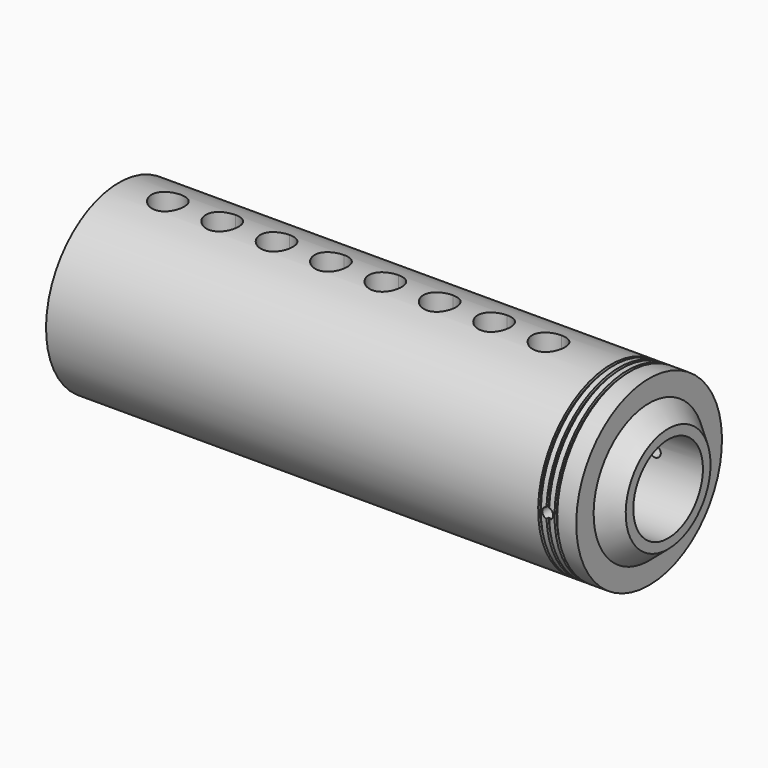
from build123d import *

# Parameters (mm, degrees)
F2_R     = 1
F3_DEPTH = 25
F4_R     = 7.25
F5_DEPTH = 2.5
F6_R     = 3
F7_DEPTH = 25
F8_R     = 7.25
F9_DEPTH = 25


with BuildPart() as f1:
    # F0 (on Front) → F1 (revolve)
    with BuildSketch(Plane.XZ):
        Polygon((4, 0), (0, 0), (0, -16.75), (90.5, -16.75), (90.5, -16.25), (91, -16.25), (91, -16.75), (92, -16.75), (92, -16.25), (92.5, -16.25), (92.5, -16.75), (93.5, -16.75), (93.5, -16.25), (94, -16.25), (94, -16.75), (97.5, -16.75), (97.5, -12.75), (101, -9.75), (101, -8), (4, -8), align=None)
    revolve(axis=Axis((2, 0, 0), (1, 0, 0)))

    # F2 (on Front) → F3 (cut, symmetric)
    with BuildSketch(Plane.XZ):
        with Locations((92.25, 0)):
            Circle(F2_R)
    extrude(amount=F3_DEPTH, both=True, mode=Mode.SUBTRACT)

    # F4 (on face) → F5 (cut)
    with BuildSketch(Plane(origin=(2.5, 0, 0), x_dir=(0, -1, 0), z_dir=(-1, 0, 0))):
        Circle(F4_R)
    extrude(amount=-F5_DEPTH, mode=Mode.SUBTRACT)

    # F6 (on Top) → F7 (cut, symmetric)
    with BuildSketch(Plane.XY):
        with BuildLine():
            ThreePointArc((22, 0), (21.12132, 2.12132), (19, 3))
            Line((19, 3), (19, -3))
            ThreePointArc((19, -3), (21.12132, -2.12132), (22, 0))
        make_face()
        with BuildLine():
            Line((19, -3), (19, 3))
            ThreePointArc((19, 3), (16, 0), (19, -3))
        make_face()
        with BuildLine():
            ThreePointArc((32, 0), (31.12132, 2.12132), (29, 3))
            Line((29, 3), (29, -3))
            ThreePointArc((29, -3), (31.12132, -2.12132), (32, 0))
        make_face()
        with BuildLine():
            Line((29, -3), (29, 3))
            ThreePointArc((29, 3), (26, 0), (29, -3))
        make_face()
        with BuildLine():
            ThreePointArc((42, 0), (41.12132, 2.12132), (39, 3))
            Line((39, 3), (39, -3))
            ThreePointArc((39, -3), (41.12132, -2.12132), (42, 0))
        make_face()
        with BuildLine():
            Line((39, -3), (39, 3))
            ThreePointArc((39, 3), (36, 0), (39, -3))
        make_face()
        with BuildLine():
            ThreePointArc((52, 0), (51.12132, 2.12132), (49, 3))
            Line((49, 3), (49, -3))
            ThreePointArc((49, -3), (51.12132, -2.12132), (52, 0))
        make_face()
        with BuildLine():
            Line((49, -3), (49, 3))
            ThreePointArc((49, 3), (46, 0), (49, -3))
        make_face()
        with BuildLine():
            ThreePointArc((62, 0), (61.12132, 2.12132), (59, 3))
            Line((59, 3), (59, -3))
            ThreePointArc((59, -3), (61.12132, -2.12132), (62, 0))
        make_face()
        with BuildLine():
            Line((59, -3), (59, 3))
            ThreePointArc((59, 3), (56, 0), (59, -3))
        make_face()
        with BuildLine():
            ThreePointArc((72, 0), (71.12132, 2.12132), (69, 3))
            Line((69, 3), (69, -3))
            ThreePointArc((69, -3), (71.12132, -2.12132), (72, 0))
        make_face()
        with BuildLine():
            Line((69, -3), (69, 3))
            ThreePointArc((69, 3), (66, 0), (69, -3))
        make_face()
        with BuildLine():
            ThreePointArc((82, 0), (81.12132, 2.12132), (79, 3))
            Line((79, 3), (79, -3))
            ThreePointArc((79, -3), (81.12132, -2.12132), (82, 0))
        make_face()
        with BuildLine():
            Line((79, -3), (79, 3))
            ThreePointArc((79, 3), (76, 0), (79, -3))
        make_face()
        with Locations((9, 0)):
            Circle(F6_R)
    extrude(amount=F7_DEPTH, both=True, mode=Mode.SUBTRACT)

    # F8 (on face) → F9 (cut)
    with BuildSketch(Plane(origin=(0, 0, 0), x_dir=(0, -1, 0), z_dir=(-1, 0, 0))):
        Circle(F8_R)
    extrude(amount=-F9_DEPTH, mode=Mode.SUBTRACT)


solid = f1.part
